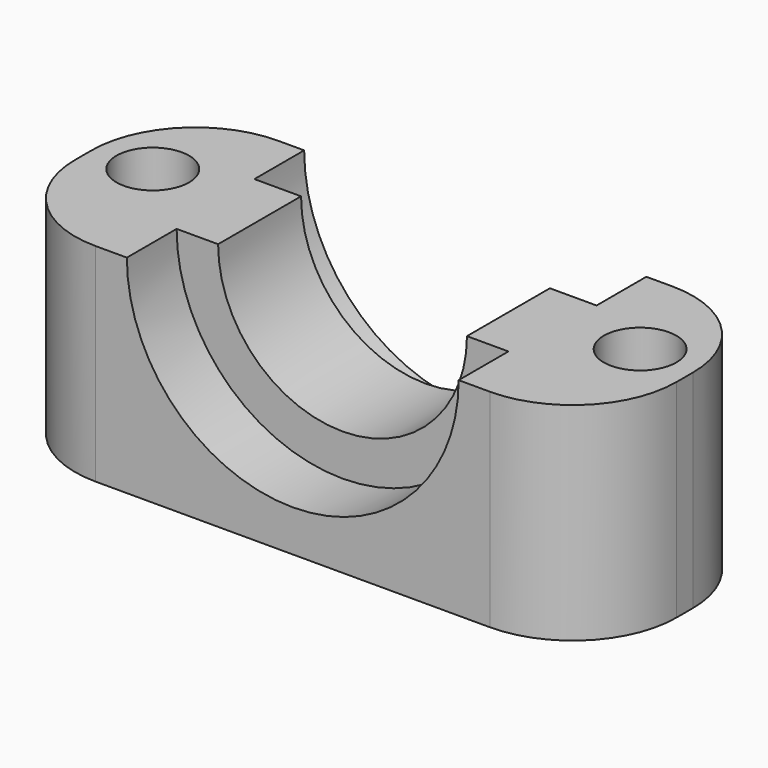
from build123d import *

# Parameters (mm, degrees)
F0_W      = 25
F0_H      = 11
F1_DEPTH  = 10
F2_R      = 8
F3_DEPTH  = 3
F4_R      = 6
F5_DEPTH  = 9
F6_W      = 11
F6_H      = 10
F7_DEPTH  = 2
F8_W      = 11
F8_H      = 10
F9_DEPTH  = 2
F10_R     = 5
F11_R     = 1.75
F12_DEPTH = 25
F13_R     = 8.25
F14_DEPTH = 3


with BuildPart() as f1:
    # F0 (on Top) → F1 (new body)
    with BuildSketch(Plane.XY):
        with Locations((12.5, 5.5)):
            Rectangle(F0_W, F0_H)
    extrude(amount=F1_DEPTH)

    # F2 (on face) → F3 (cut)
    with BuildSketch(Plane.XZ):
        with Locations((12.5, 10)):
            Circle(F2_R)
    extrude(amount=-F3_DEPTH, mode=Mode.SUBTRACT)

    # F4 (on face) → F5 (cut)
    with BuildSketch(Plane(origin=(0, 11, 0), x_dir=(-1, 0, 0), z_dir=(0, 1, 0))):
        with Locations((-12.5, 10)):
            Circle(F4_R)
    extrude(amount=-F5_DEPTH, mode=Mode.SUBTRACT)

    # F6 (on face) → F7 (join)
    with BuildSketch(Plane(origin=(0, 0, 0), x_dir=(0, -1, 0), z_dir=(-1, 0, 0))):
        with Locations((-5.5, 5)):
            Rectangle(F6_W, F6_H)
    extrude(amount=F7_DEPTH)

    # F8 (on face) → F9 (join)
    with BuildSketch(Plane.YZ.offset(25)):
        with Locations((5.5, 5)):
            Rectangle(F8_W, F8_H)
    extrude(amount=F9_DEPTH)

    # F10
    f10_edges = [f1.edges().sort_by_distance(p)[0] for p in [
        (27, 11, 5),
        (27, 0, 5),
        (-2, 11, 5),
        (-2, 0, 5),
    ]]
    fillet(f10_edges, radius=F10_R)

    # F11 (on face) → F12 (cut)
    with BuildSketch(Plane.XY.offset(10)):
        with Locations((0.75, 6.25)):
            Circle(F11_R)
        with Locations((24.25, 6.25)):
            Circle(F11_R)
    extrude(amount=-F12_DEPTH, mode=Mode.SUBTRACT)

    # F13 (on face) → F14 (cut)
    with BuildSketch(Plane(origin=(0, 11, 0), x_dir=(-1, 0, 0), z_dir=(0, 1, 0))):
        with Locations((-12.5, 10)):
            Circle(F13_R)
    extrude(amount=-F14_DEPTH, mode=Mode.SUBTRACT)


solid = f1.part
